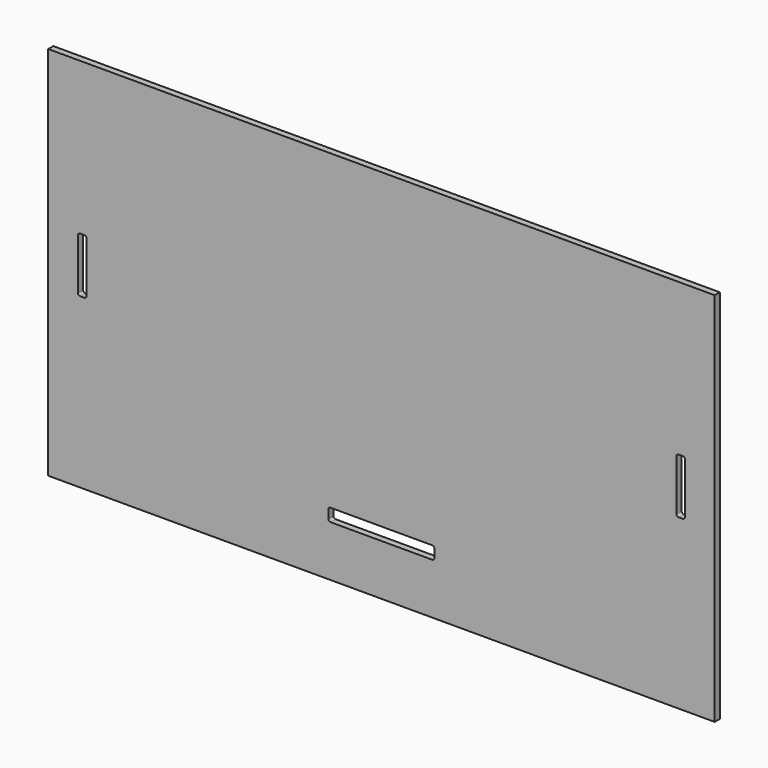
from build123d import *

# Parameters (mm, degrees)
F0_W     = 1993.9
F0_H     = 1123.95
F1_DEPTH = 9.525


with BuildPart() as f1:
    # F0 (on Front) → F1 (new body, symmetric)
    with BuildSketch(Plane.XZ):
        with Locations((0, -24.534095)):
            Rectangle(F0_W, F0_H)
        with BuildLine():
            Line((-152.4, -396.009095), (152.4, -396.009095))
            ThreePointArc((152.4, -396.009095), (156.890128, -397.868967), (158.75, -402.359095))
            Line((158.75, -402.359095), (158.75, -427.759095))
            ThreePointArc((158.75, -427.759095), (156.890128, -432.249223), (152.4, -434.109095))
            Line((152.4, -434.109095), (-152.4, -434.109095))
            ThreePointArc((-152.4, -434.109095), (-156.890128, -432.249223), (-158.75, -427.759095))
            Line((-158.75, -427.759095), (-158.75, -402.359095))
            ThreePointArc((-158.75, -402.359095), (-156.890128, -397.868967), (-152.4, -396.009095))
        make_face(mode=Mode.SUBTRACT)
        with BuildLine():
            ThreePointArc((-882.65, -76.2), (-884.509872, -80.690128), (-889, -82.55))
            Line((-889, -82.55), (-901.7, -82.55))
            ThreePointArc((-901.7, -82.55), (-906.190128, -80.690128), (-908.05, -76.2))
            Line((-908.05, -76.2), (-908.05, 76.2))
            ThreePointArc((-908.05, 76.2), (-906.190128, 80.690128), (-901.7, 82.55))
            Line((-901.7, 82.55), (-889, 82.55))
            ThreePointArc((-889, 82.55), (-884.509872, 80.690128), (-882.65, 76.2))
            Line((-882.65, 76.2), (-882.65, -76.2))
        make_face(mode=Mode.SUBTRACT)
        with BuildLine():
            Line((901.7, -82.55), (889, -82.55))
            ThreePointArc((889, -82.55), (884.509872, -80.690128), (882.65, -76.2))
            Line((882.65, -76.2), (882.65, 76.2))
            ThreePointArc((882.65, 76.2), (884.509872, 80.690128), (889, 82.55))
            Line((889, 82.55), (901.7, 82.55))
            ThreePointArc((901.7, 82.55), (906.190128, 80.690128), (908.05, 76.2))
            Line((908.05, 76.2), (908.05, -76.2))
            ThreePointArc((908.05, -76.2), (906.190128, -80.690128), (901.7, -82.55))
        make_face(mode=Mode.SUBTRACT)
    extrude(amount=F1_DEPTH, both=True)


solid = f1.part
